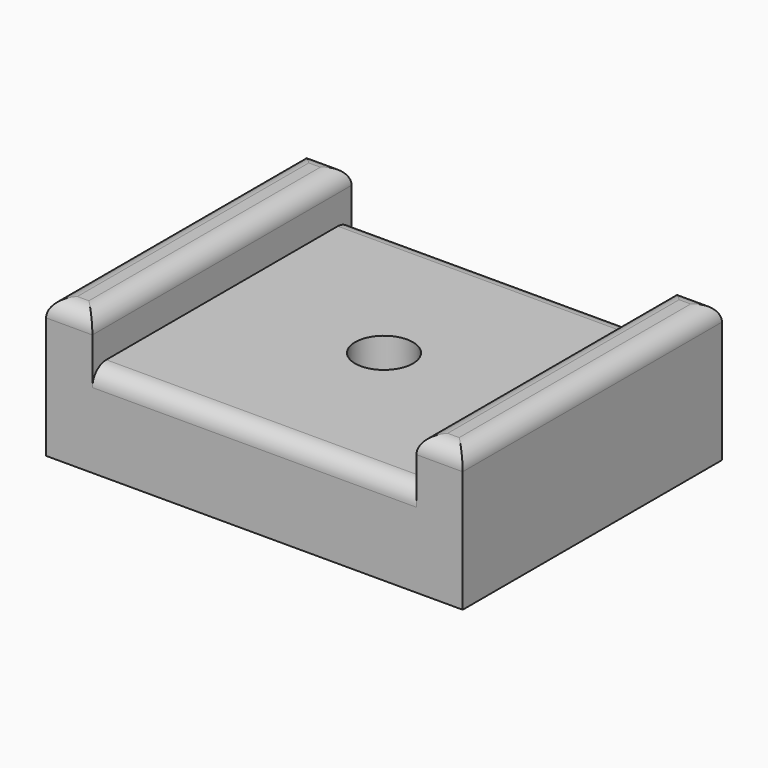
from build123d import *

# Parameters (mm, degrees)
F0_W     = 14
F0_H     = 28
F1_DEPTH = 8
F0_W_2   = 4
F2_DEPTH = 12
F3_D     = 5
F4_R     = 1.5


with BuildPart() as f1:
    # F0 (on Top) → F1 (new body)
    with BuildSketch(Plane.XY):
        with Locations((-7, 14)):
            Rectangle(F0_W, F0_H)
        with Locations((7, 14)):
            Rectangle(F0_W, F0_H)
    extrude(amount=F1_DEPTH)

    # F0 (on Top) → F2 (join)
    with BuildSketch(Plane.XY):
        with Locations((-16, 14)):
            Rectangle(F0_W_2, F0_H)
        with Locations((16, 14)):
            Rectangle(F0_W_2, F0_H)
    extrude(amount=F2_DEPTH)

    # F3 (through all)
    with Locations(Plane(origin=(0, 0, 0), x_dir=(1, 0, 0), z_dir=(0, 0, -1))):
        with Locations((0, -14)):
            Hole(F3_D / 2)

    # F4
    f4_edges = [f1.edges().sort_by_distance(p)[0] for p in [
        (-16, 0, 12),
        (-14, 14, 12),
        (-16, 28, 12),
        (-18, 14, 12),
        (14, 14, 12),
        (16, 0, 12),
        (18, 14, 12),
        (16, 28, 12),
        (0, 28, 8),
        (0, 0, 8),
    ]]
    fillet(f4_edges, radius=F4_R)


solid = f1.part
